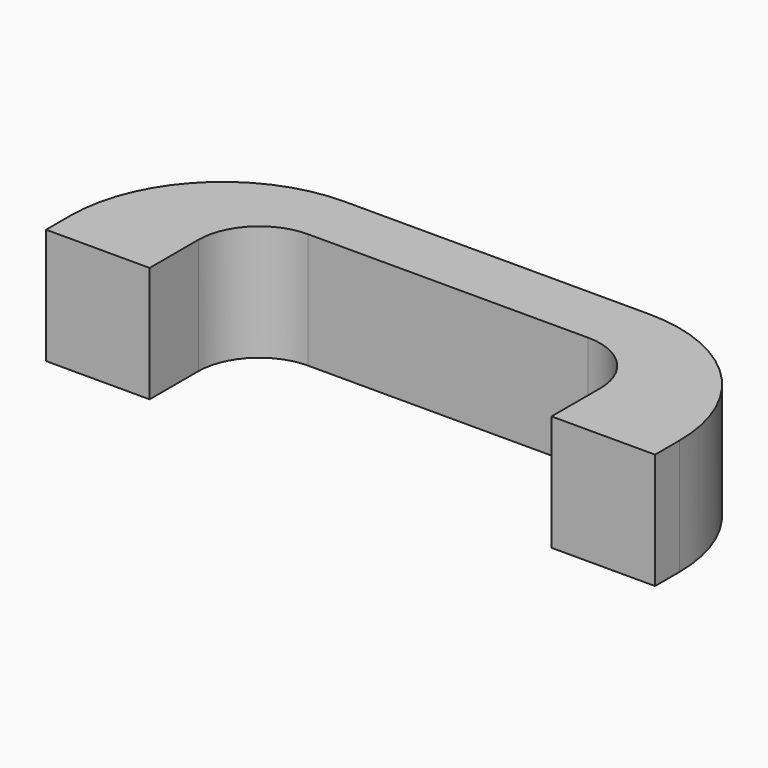
from build123d import *

# Parameters (mm, degrees)
F1_DEPTH = 4.826


with BuildPart() as f1:
    # F0 (on Top) → F1 (new body)
    with BuildSketch(Plane.XY):
        with BuildLine():
            Line((-11.804468, 6.350777), (-11.804468, 5.080777))
            Line((-11.804468, 5.080777), (-7.486468, 5.080777))
            Line((-7.486468, 5.080777), (-7.486468, 7.620777))
            ThreePointArc((-7.486468, 7.620777), (-6.742519, 9.416828), (-4.946468, 10.160777))
            Line((-4.946468, 10.160777), (6.737532, 10.160777))
            ThreePointArc((6.737532, 10.160777), (8.533583, 9.416828), (9.277532, 7.620777))
            Line((9.277532, 7.620777), (9.277532, 5.080777))
            Line((9.277532, 5.080777), (13.595532, 5.080777))
            Line((13.595532, 5.080777), (13.595532, 6.350777))
            ThreePointArc((13.595532, 6.350777), (11.73566, 10.840905), (7.245532, 12.700777))
            Line((7.245532, 12.700777), (-5.454468, 12.700777))
            ThreePointArc((-5.454468, 12.700777), (-9.944596, 10.840905), (-11.804468, 6.350777))
        make_face()
    extrude(amount=F1_DEPTH)


solid = f1.part
